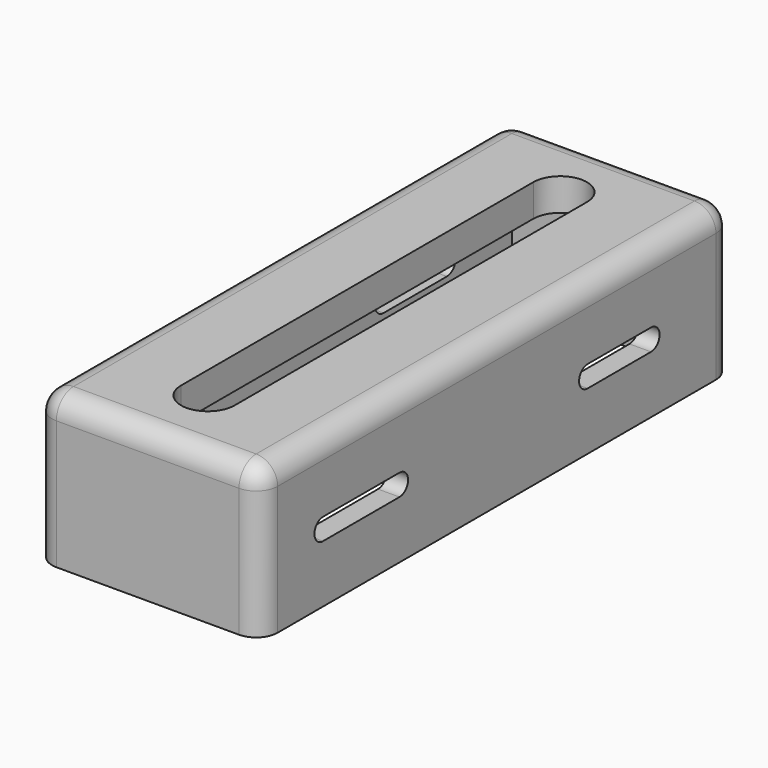
from build123d import *

# Parameters (mm, degrees)
BOX_W           = 17
BOX_H           = 51
BOX_DEPTH       = 12
THICKNESS_T     = 2
POCKET_DEPTH    = 2.001
SKETCH001_W     = 17
SKETCH001_H     = 51
PAD_DEPTH       = 1
POCKET001_DEPTH = 21.001


with BuildPart() as part:
    # Box → Box (new body)
    with BuildSketch(Plane.XY):
        with Locations((8.5, 25.5)):
            Rectangle(BOX_W, BOX_H)
    extrude(amount=BOX_DEPTH)

    # Thickness
    thickness_openings = [part.faces().sort_by_distance(p)[0] for p in [
        (8.5, 25.5, 0),
    ]]
    offset(amount=THICKNESS_T, openings=thickness_openings)

    # Sketch (on Face5 of Thickness) → Pocket (cut, through all)
    with BuildSketch(Plane(origin=(0, 0, 12), x_dir=(1, 0, 0), z_dir=(0, 0, -1))):
        with BuildLine():
            ThreePointArc((11, -5), (8.5, -2.5), (6, -5))
            Line((6, -5), (6, -46))
            ThreePointArc((6, -46), (8.5, -48.5), (11, -46))
            Line((11, -46), (11, -5))
        make_face()
    extrude(amount=-POCKET_DEPTH, mode=Mode.SUBTRACT)

    # Sketch001 (on Face3 of Pocket) → Pad (join)
    with BuildSketch(Plane(origin=(0, 0, 12), x_dir=(1, 0, 0), z_dir=(0, 0, -1))):
        with Locations((8.5, -25.5)):
            Rectangle(SKETCH001_W, SKETCH001_H)
        with BuildLine():
            ThreePointArc((11, -5), (8.5, -2.5), (6, -5))
            Line((6, -5), (6, -46))
            ThreePointArc((6, -46), (8.5, -48.5), (11, -46))
            Line((11, -46), (11, -5))
        make_face(mode=Mode.SUBTRACT)
    extrude(amount=PAD_DEPTH)

    # Sketch002 (on Face17 of Pad) → Pocket001 (cut, through all)
    with BuildSketch(Plane.YZ.offset(19)):
        with BuildLine():
            ThreePointArc((36.076138, 7.358207), (35.076138, 6.358207), (36.076138, 5.358207))
            Line((36.076138, 5.358207), (43.44347, 5.358207))
            ThreePointArc((43.44347, 5.358207), (44.44347, 6.358207), (43.44347, 7.358207))
            Line((43.44347, 7.358207), (36.076138, 7.358207))
        make_face()
        with BuildLine():
            ThreePointArc((5.278592, 7.358207), (4.278592, 6.358207), (5.278592, 5.358207))
            Line((5.278592, 5.358207), (14.177313, 5.358207))
            ThreePointArc((14.177313, 5.358207), (15.177313, 6.358207), (14.177313, 7.358207))
            Line((14.177313, 7.358207), (5.278592, 7.358207))
        make_face()
    extrude(amount=-POCKET001_DEPTH, mode=Mode.SUBTRACT)


solid = part.part
